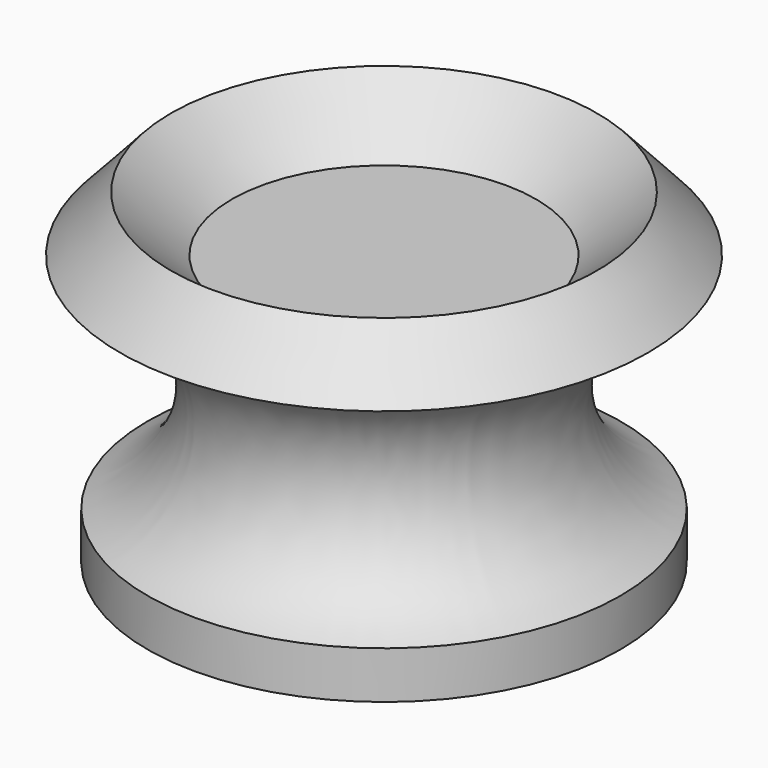
from build123d import *


with BuildPart() as f1:
    # F0 (on Front) → F1 (revolve)
    with BuildSketch(Plane.XZ):
        with BuildLine():
            Line((-35, 0), (-24, 0))
            ThreePointArc((-24, 0), (-15.115156, 18.216942), (0, 31.719886))
            Line((0, 31.719886), (0, 40))
            Line((0, 40), (-22.5, 40))
            Line((-22.5, 40), (-31.547704, 48.252974))
            Line((-31.547704, 48.252974), (-39.075756, 40))
            ThreePointArc((-39.075756, 40), (-24.130879, 25.094115), (-35, 7))
            Line((-35, 7), (-35, 0))
        make_face()
    revolve(axis=Axis((0, 0, 15.859943), (0, 0, -1)))


solid = f1.part
